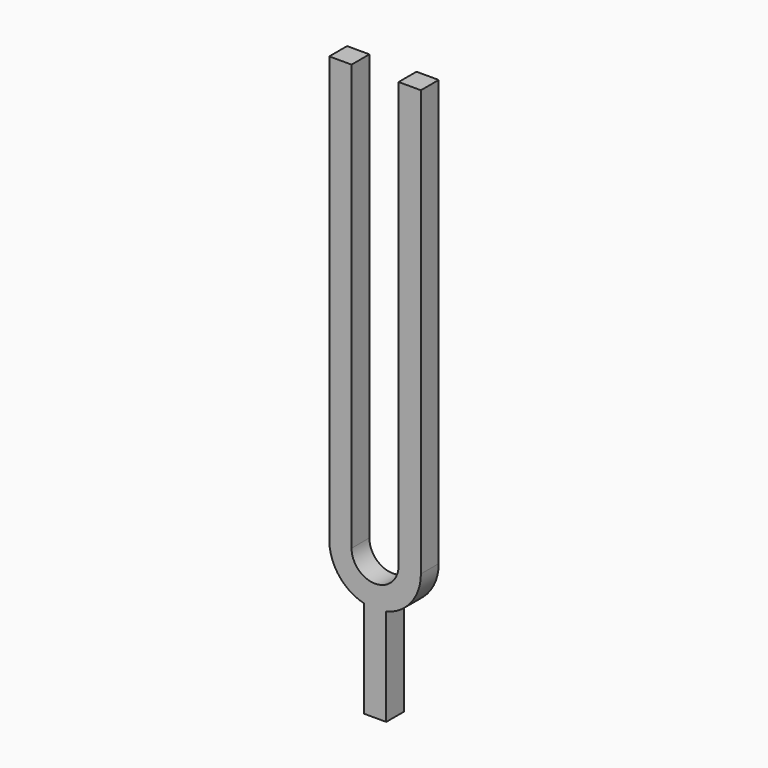
from build123d import *

# Parameters (mm, degrees)
F1_DEPTH = 1.9685
F3_W     = 3.937
F3_H     = 3.937


with BuildPart() as f1:
    # F0 (on Front) → F1 (new body, symmetric)
    with BuildSketch(Plane.XZ):
        with BuildLine():
            Line((-4.1529, 75.1713), (-8.0899, 75.1713))
            Line((-8.0899, 75.1713), (-8.0899, 0))
            ThreePointArc((-8.0899, 0), (0, -8.0899), (8.0899, 0))
            Line((8.0899, 0), (8.0899, 75.1713))
            Line((8.0899, 75.1713), (4.1529, 75.1713))
            Line((4.1529, 75.1713), (4.1529, 0))
            ThreePointArc((4.1529, 0), (0, -4.1529), (-4.1529, 0))
            Line((-4.1529, 0), (-4.1529, 75.1713))
        make_face()
    extrude(amount=F1_DEPTH, both=True)

    # F3 (on offset) → F4 (join, up to the next surface of F1)
    with BuildSketch(Plane.XY.offset(-25)):
        Rectangle(F3_W, F3_H)
    extrude(until=Until.NEXT)


solid = f1.part
